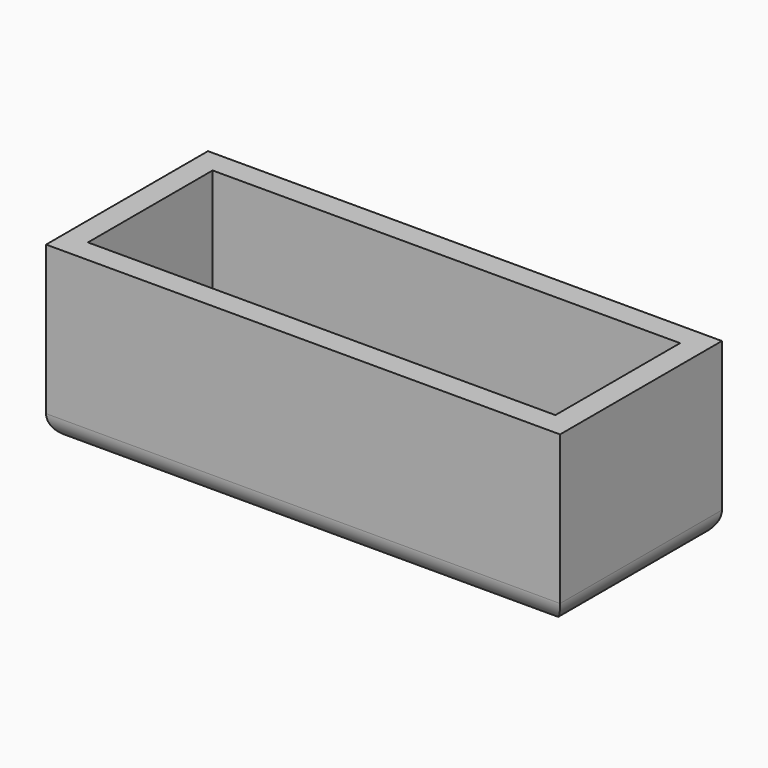
from build123d import *

# Parameters (mm, degrees)
F0_W     = 100.5
F0_H     = 33.5
F1_DEPTH = 5
F0_W_2   = 110.5
F0_H_2   = 43.5
F2_DEPTH = 37
F3_R     = 5


with BuildPart() as f1:
    # F0 (on Top) → F1 (new body)
    with BuildSketch(Plane.XY):
        Rectangle(F0_W, F0_H)
    extrude(amount=F1_DEPTH)

    # F0 (on Top) → F2 (join)
    with BuildSketch(Plane.XY):
        Rectangle(F0_W_2, F0_H_2)
        Rectangle(F0_W, F0_H, mode=Mode.SUBTRACT)
    extrude(amount=F2_DEPTH)

    # F3
    f3_edges = [f1.edges().sort_by_distance(p)[0] for p in [
        (-55.25, 0, 0),
        (0, 21.75, 0),
        (55.25, 0, 0),
        (0, -21.75, 0),
    ]]
    fillet(f3_edges, radius=F3_R)


solid = f1.part
